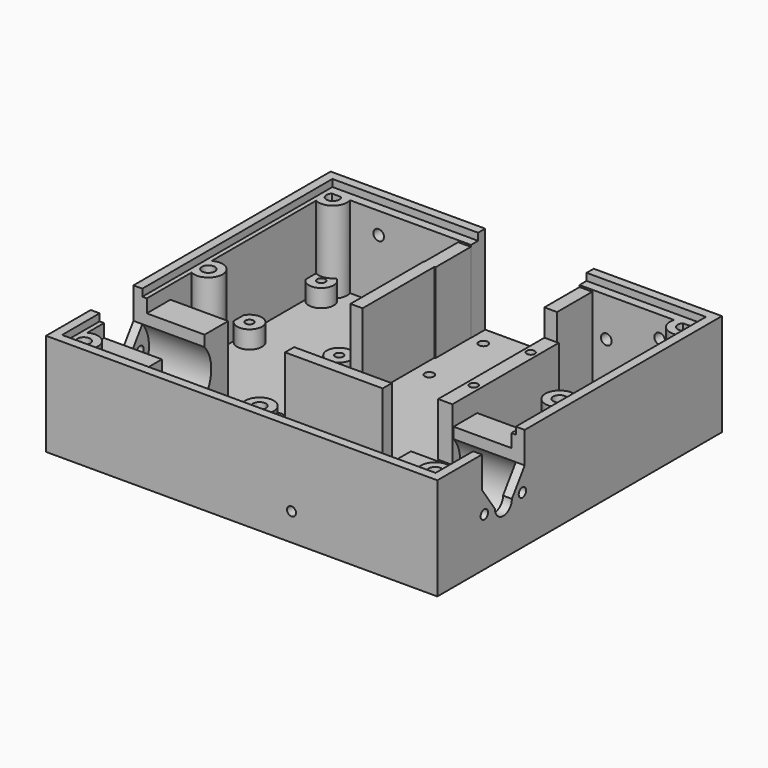
from build123d import *

# Parameters (mm, degrees)
BOX001_W        = 38.73
BOX001_H        = 53.34
BOX001_DEPTH    = 50.8
SKETCH_W        = 139.7
SKETCH_H        = 127
SKETCH_W_2      = 130.175
SKETCH_H_2      = 115.8875
PAD_DEPTH       = 31.75
SKETCH001_W     = 139.7
SKETCH001_H     = 127
SKETCH001_R     = 1.651
PAD001_DEPTH    = 4.7625
SKETCH002_R     = 5.08
SKETCH002_R_2   = 2.286
PAD002_DEPTH    = 31.75
SKETCH003_W     = 25.4
SKETCH003_H     = 40
PAD003_DEPTH    = 24.5
POCKET_DEPTH    = 139.701
SKETCH007_R     = 4.445
SKETCH007_R_2   = 1.45
PAD006_DEPTH    = 6.35
SKETCH014_R     = 1.905
POCKET004_DEPTH = 6.351
SKETCH015_W     = 133.35
SKETCH015_H     = 120.65
POCKET005_DEPTH = 6.35
SKETCH016_R     = 1.651
PAD010_DEPTH    = 3.175
SKETCH060_W     = 10.16
SKETCH060_H     = 9.525
SKETCH060_W_2   = 7.62
SKETCH060_H_2   = 1.143
PAD028_DEPTH    = 9.525
SKETCH061_R     = 1.6
POCKET028_DEPTH = 11.43
SKETCH071_W     = 4.522567
SKETCH071_H     = 19.0781560115
PAD033_DEPTH    = 28.575
SKETCH072_R     = 1.778
POCKET034_DEPTH = 76.2
SKETCH074_W     = 4.299609
SKETCH074_H     = 32.990636
SKETCH074_W_2   = 34.861665
SKETCH074_H_2   = 4.058911
PAD034_DEPTH    = 28.575
SKETCH089_W     = 5.08
SKETCH089_H     = 47.5033603219
SKETCH089_R     = 1.45
PAD041_DEPTH    = 19.05


with BuildPart() as front_removal:
    # Box001 → Box001 (new body)
    with BuildSketch(Plane(origin=(-14.6558, 22.7838, 0), x_dir=(1, 0, 0), z_dir=(0, 0, 1))):
        with Locations((19.365, 26.67)):
            Rectangle(BOX001_W, BOX001_H)
    extrude(amount=BOX001_DEPTH)


with BuildPart() as main_body:
    # Sketch → Pad (new body)
    with BuildSketch(Plane.XY):
        Rectangle(SKETCH_W, SKETCH_H)
        with Locations((0, -0.79375)):
            Rectangle(SKETCH_W_2, SKETCH_H_2, mode=Mode.SUBTRACT)
    extrude(amount=PAD_DEPTH)

    # Sketch001 (on Face9 of Pad) → Pad001 (join)
    with BuildSketch(Plane(origin=(0, 0, 0), x_dir=(1, 0, 0), z_dir=(0, 0, -1))):
        Rectangle(SKETCH001_W, SKETCH001_H)
        with Locations((-27.286566, 13.226975)):
            Circle(SKETCH001_R, mode=Mode.SUBTRACT)
        with Locations((-27.286566, -2.648025)):
            Circle(SKETCH001_R, mode=Mode.SUBTRACT)
        with Locations((-9.8298, -32.495678)):
            Circle(SKETCH001_R, mode=Mode.SUBTRACT)
        with Locations((19.2024, -32.495678)):
            Circle(SKETCH001_R, mode=Mode.SUBTRACT)
        with Locations((19.2024, -56.625678)):
            Circle(SKETCH001_R, mode=Mode.SUBTRACT)
        with Locations((-9.8298, -56.625678)):
            Circle(SKETCH001_R, mode=Mode.SUBTRACT)
    extrude(amount=PAD001_DEPTH)

    # Sketch002 (on Face21 of Pad001) → Pad002 (join)
    with BuildSketch(Plane.XY):
        with Locations((-62.70625, 55.5625)):
            Circle(SKETCH002_R)
        with Locations((-62.70625, 55.5625)):
            Circle(SKETCH002_R_2, mode=Mode.SUBTRACT)
        with Locations((0, 55.5625)):
            Circle(SKETCH002_R)
        with Locations((0, 55.5625)):
            Circle(SKETCH002_R_2, mode=Mode.SUBTRACT)
        with Locations((62.70625, 55.5625)):
            Circle(SKETCH002_R)
        with Locations((62.70625, 55.5625)):
            Circle(SKETCH002_R_2, mode=Mode.SUBTRACT)
        with Locations((62.70625, 0)):
            Circle(SKETCH002_R)
        with Locations((62.70625, 0)):
            Circle(SKETCH002_R_2, mode=Mode.SUBTRACT)
        with Locations((62.70625, -55.5625)):
            Circle(SKETCH002_R)
        with Locations((62.70625, -55.5625)):
            Circle(SKETCH002_R_2, mode=Mode.SUBTRACT)
        with Locations((0, -55.5625)):
            Circle(SKETCH002_R)
        with Locations((0, -55.5625)):
            Circle(SKETCH002_R_2, mode=Mode.SUBTRACT)
        with Locations((-62.70625, -55.5625)):
            Circle(SKETCH002_R)
        with Locations((-62.70625, -55.5625)):
            Circle(SKETCH002_R_2, mode=Mode.SUBTRACT)
        with Locations((-62.70625, 0)):
            Circle(SKETCH002_R)
        with Locations((-62.70625, 0)):
            Circle(SKETCH002_R_2, mode=Mode.SUBTRACT)
    extrude(amount=PAD002_DEPTH)

    # Sketch003 (on Face33 of Pad002) → Pad003 (join)
    with BuildSketch(Plane.XY):
        with Locations((-57.15, -33.97)):
            Rectangle(SKETCH003_W, SKETCH003_H)
        with Locations((57.15, -33.97)):
            Rectangle(SKETCH003_W, SKETCH003_H)
    extrude(amount=PAD003_DEPTH)

    # Sketch004 (on Face7 of Pad003) → Pocket (cut, through all)
    with BuildSketch(Plane(origin=(-69.85, 0, 0), x_dir=(0, -1, 0), z_dir=(-1, 0, 0))):
        with BuildLine():
            ThreePointArc((24.511, 20.5930335595), (34.036, 0), (43.561, 20.5930335595))
            Line((43.561, 33.2930335595), (43.561, 20.5930335595))
            Line((24.511, 33.2930335595), (43.561, 33.2930335595))
            Line((24.511, 20.5930335595), (24.511, 33.2930335595))
        make_face()
    extrude(amount=-POCKET_DEPTH, mode=Mode.SUBTRACT)

    # Sketch007 → Pad006 (join)
    with BuildSketch(Plane(origin=(-34.29, 25.4, 0), x_dir=(1, 0, 0), z_dir=(0, 0, 1))):
        with Locations((5.08, 23.11)):
            Circle(SKETCH007_R)
        with Locations((5.08, 23.11)):
            Circle(SKETCH007_R_2, mode=Mode.SUBTRACT)
        with Locations((-26.92, 23.11)):
            Circle(SKETCH007_R)
        with Locations((-26.92, 23.11)):
            Circle(SKETCH007_R_2, mode=Mode.SUBTRACT)
        with Locations((-26.92, -8.89)):
            Circle(SKETCH007_R)
        with Locations((-26.92, -8.89)):
            Circle(SKETCH007_R_2, mode=Mode.SUBTRACT)
        with Locations((5.08, -8.89)):
            Circle(SKETCH007_R)
        with Locations((5.08, -8.89)):
            Circle(SKETCH007_R_2, mode=Mode.SUBTRACT)
    extrude(amount=PAD006_DEPTH)

    # Sketch014 (on Face19 of Pad006) → Pocket004 (cut, through all)
    with BuildSketch(Plane.XZ.offset(-57.15)):
        with Locations((-47.625, 21.59)):
            Circle(SKETCH014_R)
        with Locations((-28.575, 15.24)):
            Circle(SKETCH014_R)
        with Locations((33.655, 15.24)):
            Circle(SKETCH014_R)
        with Locations((52.705, 21.59)):
            Circle(SKETCH014_R)
    extrude(amount=-POCKET004_DEPTH, mode=Mode.SUBTRACT)

    # Sketch015 → Pocket005 (cut)
    with BuildSketch(Plane.XY.offset(29.21)):
        Rectangle(SKETCH015_W, SKETCH015_H)
    extrude(amount=POCKET005_DEPTH, mode=Mode.SUBTRACT)

    # Sketch016 (on Face11 of Pocket005) → Pad010 (join)
    with BuildSketch(Plane(origin=(-69.85, 0, 0), x_dir=(0, -1, 0), z_dir=(-1, 0, 0))):
        with BuildLine():
            ThreePointArc((30.226, 12.3860423935), (34.036, 8.5760423935), (37.846, 12.3860423935))
            Line((43.561, 20.5930335595), (37.846, 12.3860423935))
            ThreePointArc((24.511, 20.5930335595), (34.036, -0.1869576065), (43.561, 20.5930335595))
            Line((24.511, 20.5930335595), (30.226, 12.3860423935))
        make_face()
        with Locations((25.536, 12.49934)):
            Circle(SKETCH016_R, mode=Mode.SUBTRACT)
        with Locations((42.536, 12.49934)):
            Circle(SKETCH016_R, mode=Mode.SUBTRACT)
    pad010 = extrude(amount=-PAD010_DEPTH)

    # Mirrored: Pad010 across YZ
    add(pad010.mirror(Plane.YZ))

    # Sketch060 (on Face81 of Pocket005) → Pad028 (join)
    with BuildSketch(Plane.XY):
        with Locations((17.78, -53.975)):
            Rectangle(SKETCH060_W, SKETCH060_H)
        with Locations((17.78, -52.2605)):
            Rectangle(SKETCH060_W_2, SKETCH060_H_2, mode=Mode.SUBTRACT)
        with Locations((17.78, -56.5785)):
            Rectangle(SKETCH060_W_2, SKETCH060_H_2, mode=Mode.SUBTRACT)
    extrude(amount=PAD028_DEPTH)

    # Sketch061 (on Face86 of Pad028) → Pocket028 (cut)
    with BuildSketch(Plane.XZ.offset(63.5)):
        with Locations((17.78, 5.08)):
            Circle(SKETCH061_R)
    extrude(amount=-POCKET028_DEPTH, mode=Mode.SUBTRACT)

    # Sketch071 (on Face21 of Pad001) → Pad033 (join)
    with BuildSketch(Plane.XY):
        with Locations((-16.9815035, 50.9765749943)):
            Rectangle(SKETCH071_W, SKETCH071_H)
        with Locations((26.3779375001, 50.9765749943)):
            Rectangle(SKETCH071_W, SKETCH071_H)
    extrude(amount=PAD033_DEPTH)

    # Sketch072 (on Face127 of Pad033) → Pocket034 (cut)
    with BuildSketch(Plane.XY.offset(31.75)):
        with Locations((50.8, 22.225)):
            Circle(SKETCH072_R)
    extrude(amount=-POCKET034_DEPTH, mode=Mode.SUBTRACT)

    # Sketch074 (on Face56 of Pocket034) → Pad034 (join)
    with BuildSketch(Plane.XY):
        with Locations((-17.2816815, 25.842361)):
            Rectangle(SKETCH074_W, SKETCH074_H)
        with Locations((2.0425745, -22.9079595)):
            Rectangle(SKETCH074_W_2, SKETCH074_H_2)
    extrude(amount=PAD034_DEPTH)

    # Sketch089 (on Face56 of Pad034) → Pad041 (join)
    with BuildSketch(Plane.XY):
        with Locations((26.6647168511, 17.7529041609)):
            Rectangle(SKETCH089_W, SKETCH089_H)
        with Locations((26.6647168511, 32.117611)):
            Circle(SKETCH089_R, mode=Mode.SUBTRACT)
        with Locations((26.6647168511, 6.717611)):
            Circle(SKETCH089_R, mode=Mode.SUBTRACT)
    extrude(amount=PAD041_DEPTH)

    # Cut001: cut front-removal
    add(front_removal.part, mode=Mode.SUBTRACT)


solid = main_body.part
